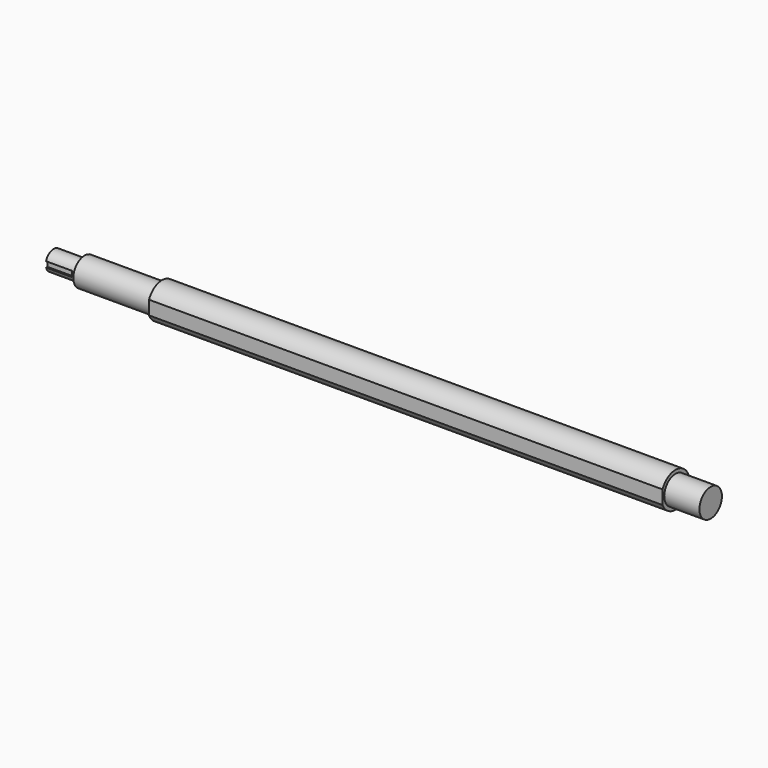
from build123d import *

# Parameters (mm, degrees)
F2_W     = 4
F2_H     = 8
F3_DEPTH = 37
F4_W     = 21.7020311332
F4_H     = 83.8147368835
F5_DEPTH = 752
F6_D     = 8
F6_DEPTH = 25
F6_TIP   = 2.4034424761


with BuildPart() as f1:
    # F0 (on Front) → F1 (revolve)
    with BuildSketch(Plane.XZ):
        Polygon((934, 0), (0, 0), (0, -14), (44, -14), (44, -20), (154, -20), (154, -25), (884, -25), (884, -20), (934, -20), align=None)
    revolve(axis=Axis((467, 0, 0), (1, 0, 0)))

    # F2 (on face) → F3 (cut)
    with BuildSketch(Plane(origin=(0, 0, 0), x_dir=(0, -1, 0), z_dir=(-1, 0, 0))):
        with Locations((13, 0)):
            Rectangle(F2_W, F2_H)
    extrude(amount=-F3_DEPTH, mode=Mode.SUBTRACT)

    # F4 (on face) → F5 (cut)
    with BuildSketch(Plane(origin=(154, 0, 0), x_dir=(0, -1, 0), z_dir=(-1, 0, 0))):
        with Locations((33.8510155666, -0.2332581207)):
            Rectangle(F4_W, F4_H)
    extrude(amount=-F5_DEPTH, mode=Mode.SUBTRACT)

    # F6
    with Locations(Plane(origin=(0, 0, 0), x_dir=(0, -1, 0), z_dir=(-1, 0, 0))):
        with Locations((0, 0)):
            Hole(F6_D / 2, depth=F6_DEPTH)
            with Locations((0, 0, -(F6_DEPTH + F6_TIP / 2))):  # 118° drill point
                Cone(0, F6_D / 2, F6_TIP, mode=Mode.SUBTRACT)


solid = f1.part
